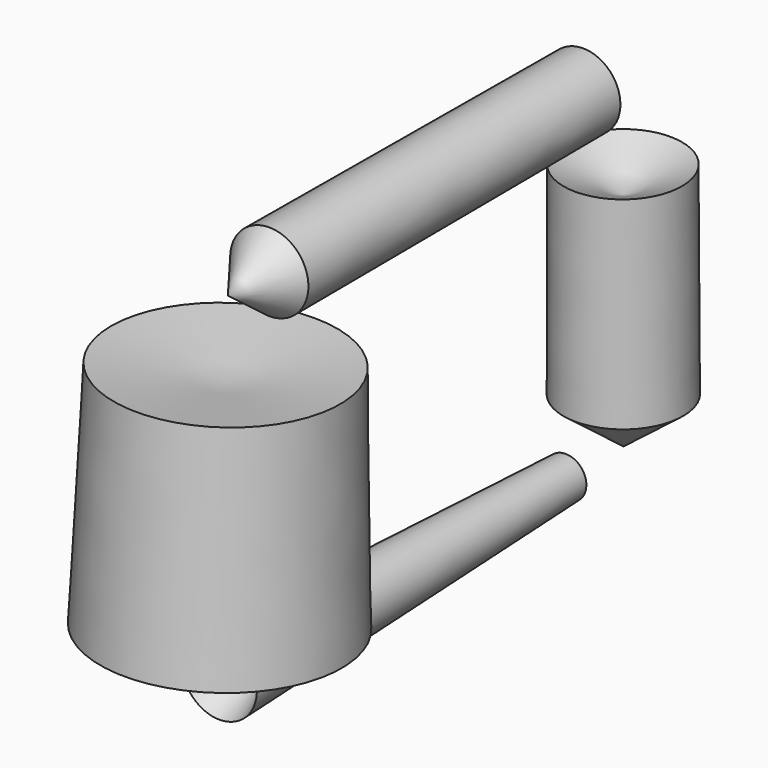
from build123d import *


with BuildPart() as f1:
    # F0 (on Right) → F1 (revolve)
    with BuildSketch(Plane.YZ):
        Polygon((-161.0120236874, 91.7887464166), (121.2217062712, 93.094162643), (137.3493522406, 119.9460253119), (-198.2906460762, 119.9460253119), align=None)
    revolve(axis=Axis((0, -30.4706469178, 119.9460253119), (0, -1, 0)))


with BuildPart() as f2:
    # F0 (on Right) → F2 (revolve)
    with BuildSketch(Plane.YZ):
        Polygon((-120.428532362, -89.3167406321), (-120.428532362, 74.1739273071), (-200.6701529026, 65.7465755939), (-204.6359479427, -54.7150075436), align=None)
    revolve(axis=Axis((0, -202.6530504227, 5.5157840252), (0, -0.0329038316, -0.9994585223)))


with BuildPart() as f3:
    # F0 (on Right) → F3 (revolve)
    with BuildSketch(Plane.YZ):
        Polygon((89.7595882416, -118.6472177505), (105.6228429079, -103.7919521332), (-205.8257162571, -91.7127430439), (-140.1253938675, -118.6472177505), align=None)
    revolve(axis=Axis((0, -25.182902813, -118.6472177505), (0, 1, 0)))


with BuildPart() as f4:
    # F0 (on Right) → F4 (revolve)
    with BuildSketch(Plane.YZ):
        Polygon((157.5894355774, -120.2260553837), (157.0462286472, 39.390437305), (114.3476366997, 58.6411580443), (114.3476366997, -86.9620293379), align=None)
    revolve(axis=Axis((0, 157.3178321123, -40.4178090394), (0, -0.0034031808, 0.9999942092)))


solid = Compound([f1.part, f2.part, f3.part, f4.part])
